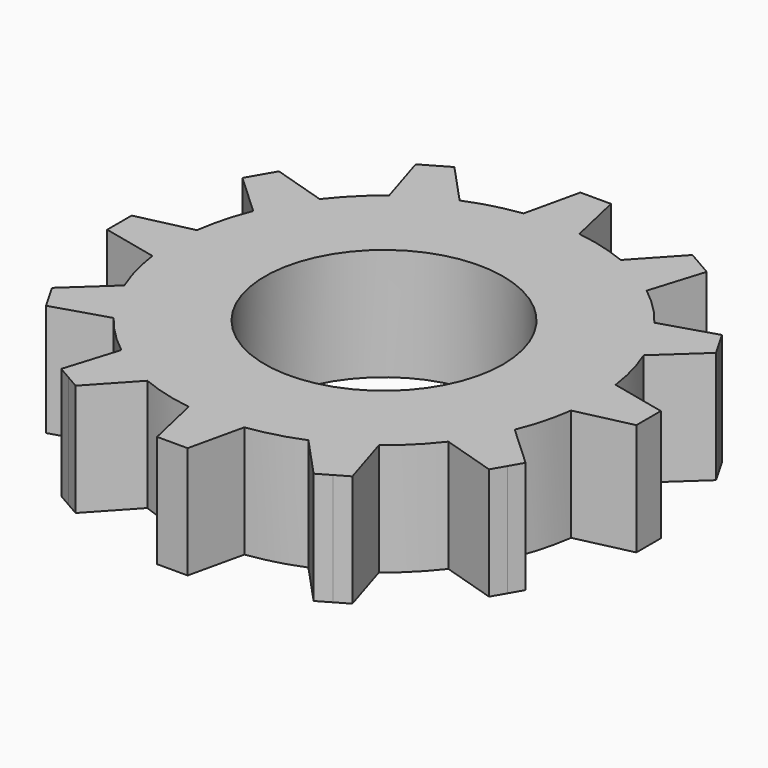
from build123d import *

# Parameters (mm, degrees)
F0_R     = 14.037326
F1_DEPTH = 13.208


with BuildPart() as f1:
    # F0 (on Top) → F1 (new body)
    with BuildSketch(Plane.XY):
        with BuildLine():
            ThreePointArc((24.666504, -3.280848), (24.82937, -1.644016), (24.883737, 0))
            ThreePointArc((24.883737, 0), (24.82937, 1.644016), (24.666504, 3.280848))
            ThreePointArc((24.666504, 3.280848), (24.035844, 6.440385), (23.002243, 9.491954))
            ThreePointArc((23.002243, 9.491954), (21.549949, 12.441869), (19.721395, 15.17455))
            ThreePointArc((19.721395, 15.17455), (17.595459, 17.595459), (15.17455, 19.721395))
            ThreePointArc((15.17455, 19.721395), (12.441869, 21.549949), (9.491954, 23.002243))
            ThreePointArc((9.491954, 23.002243), (6.440385, 24.035844), (3.280848, 24.666504))
            ThreePointArc((3.280848, 24.666504), (0, 24.883737), (-3.280848, 24.666504))
            ThreePointArc((-3.280848, 24.666504), (-6.440385, 24.035844), (-9.491954, 23.002243))
            ThreePointArc((-9.491954, 23.002243), (-12.441869, 21.549949), (-15.17455, 19.721395))
            ThreePointArc((-15.17455, 19.721395), (-17.595459, 17.595459), (-19.721395, 15.17455))
            ThreePointArc((-19.721395, 15.17455), (-21.549949, 12.441869), (-23.002243, 9.491954))
            ThreePointArc((-23.002243, 9.491954), (-24.035844, 6.440385), (-24.666504, 3.280848))
            ThreePointArc((-24.666504, 3.280848), (-24.883737, 0), (-24.666504, -3.280848))
            ThreePointArc((-24.666504, -3.280848), (-24.035844, -6.440385), (-23.002243, -9.491954))
            ThreePointArc((-23.002243, -9.491954), (-21.549949, -12.441869), (-19.721395, -15.17455))
            ThreePointArc((-19.721395, -15.17455), (-17.595459, -17.595459), (-15.17455, -19.721395))
            ThreePointArc((-15.17455, -19.721395), (-12.441869, -21.549949), (-9.491954, -23.002243))
            ThreePointArc((-9.491954, -23.002243), (-6.440385, -24.035844), (-3.280848, -24.666504))
            ThreePointArc((-3.280848, -24.666504), (0, -24.883737), (3.280848, -24.666504))
            ThreePointArc((3.280848, -24.666504), (6.440385, -24.035844), (9.491954, -23.002243))
            ThreePointArc((9.491954, -23.002243), (12.441869, -21.549949), (15.17455, -19.721395))
            ThreePointArc((15.17455, -19.721395), (17.595459, -17.595459), (19.721395, -15.17455))
            ThreePointArc((19.721395, -15.17455), (21.549949, -12.441869), (23.002243, -9.491954))
            ThreePointArc((23.002243, -9.491954), (24.035844, -6.440385), (24.666504, -3.280848))
        make_face()
        Circle(F0_R, mode=Mode.SUBTRACT)
        with BuildLine():
            ThreePointArc((24.666504, 3.280848), (24.82937, 1.644016), (24.883737, 0))
            ThreePointArc((24.883737, 0), (24.82937, -1.644016), (24.666504, -3.280848))
            Line((24.666504, -3.280848), (31.178985, -1.803033))
            Line((31.178985, -1.803033), (31.178985, 0))
            Line((31.178985, 0), (31.178985, 1.803033))
            Line((31.178985, 1.803033), (24.666504, 3.280848))
        make_face()
        with BuildLine():
            ThreePointArc((19.721395, 15.17455), (21.549949, 12.441869), (23.002243, 9.491954))
            Line((23.002243, 9.491954), (27.903309, 14.02802))
            Line((27.903309, 14.02802), (27.001793, 15.589492))
            Line((27.001793, 15.589492), (26.100276, 17.150965))
            Line((26.100276, 17.150965), (19.721395, 15.17455))
        make_face()
        with BuildLine():
            Line((27.903309, -14.02802), (23.002243, -9.491954))
            ThreePointArc((23.002243, -9.491954), (21.549949, -12.441869), (19.721395, -15.17455))
            Line((19.721395, -15.17455), (26.100276, -17.150965))
            Line((26.100276, -17.150965), (27.001793, -15.589492))
            Line((27.001793, -15.589492), (27.903309, -14.02802))
        make_face()
        with BuildLine():
            ThreePointArc((9.491954, 23.002243), (12.441869, 21.549949), (15.17455, 19.721395))
            Line((15.17455, 19.721395), (17.150965, 26.100276))
            Line((17.150965, 26.100276), (15.589492, 27.001793))
            Line((15.589492, 27.001793), (14.02802, 27.903309))
            Line((14.02802, 27.903309), (9.491954, 23.002243))
        make_face()
        with BuildLine():
            Line((17.150965, -26.100276), (15.17455, -19.721395))
            ThreePointArc((15.17455, -19.721395), (12.441869, -21.549949), (9.491954, -23.002243))
            Line((9.491954, -23.002243), (14.02802, -27.903309))
            Line((14.02802, -27.903309), (15.589492, -27.001793))
            Line((15.589492, -27.001793), (17.150965, -26.100276))
        make_face()
        with BuildLine():
            ThreePointArc((-3.280848, 24.666504), (0, 24.883737), (3.280848, 24.666504))
            Line((3.280848, 24.666504), (1.803033, 31.178985))
            Line((1.803033, 31.178985), (0, 31.178985))
            Line((0, 31.178985), (-1.803033, 31.178985))
            Line((-1.803033, 31.178985), (-3.280848, 24.666504))
        make_face()
        with BuildLine():
            Line((1.803033, -31.178985), (3.280848, -24.666504))
            ThreePointArc((3.280848, -24.666504), (0, -24.883737), (-3.280848, -24.666504))
            Line((-3.280848, -24.666504), (-1.803033, -31.178985))
            Line((-1.803033, -31.178985), (0, -31.178985))
            Line((0, -31.178985), (1.803033, -31.178985))
        make_face()
        with BuildLine():
            ThreePointArc((-15.17455, 19.721395), (-12.441869, 21.549949), (-9.491954, 23.002243))
            Line((-9.491954, 23.002243), (-14.02802, 27.903309))
            Line((-14.02802, 27.903309), (-15.589492, 27.001793))
            Line((-15.589492, 27.001793), (-17.150965, 26.100276))
            Line((-17.150965, 26.100276), (-15.17455, 19.721395))
        make_face()
        with BuildLine():
            Line((-14.02802, -27.903309), (-9.491954, -23.002243))
            ThreePointArc((-9.491954, -23.002243), (-12.441869, -21.549949), (-15.17455, -19.721395))
            Line((-15.17455, -19.721395), (-17.150965, -26.100276))
            Line((-17.150965, -26.100276), (-15.589492, -27.001793))
            Line((-15.589492, -27.001793), (-14.02802, -27.903309))
        make_face()
        with BuildLine():
            ThreePointArc((-23.002243, 9.491954), (-21.549949, 12.441869), (-19.721395, 15.17455))
            Line((-19.721395, 15.17455), (-26.100276, 17.150965))
            Line((-26.100276, 17.150965), (-27.001793, 15.589492))
            Line((-27.001793, 15.589492), (-27.903309, 14.02802))
            Line((-27.903309, 14.02802), (-23.002243, 9.491954))
        make_face()
        with BuildLine():
            Line((-26.100276, -17.150965), (-19.721395, -15.17455))
            ThreePointArc((-19.721395, -15.17455), (-21.549949, -12.441869), (-23.002243, -9.491954))
            Line((-23.002243, -9.491954), (-27.903309, -14.02802))
            Line((-27.903309, -14.02802), (-27.001793, -15.589492))
            Line((-27.001793, -15.589492), (-26.100276, -17.150965))
        make_face()
        with BuildLine():
            ThreePointArc((-24.666504, -3.280848), (-24.883737, 0), (-24.666504, 3.280848))
            Line((-24.666504, 3.280848), (-31.178985, 1.803033))
            Line((-31.178985, 1.803033), (-31.178985, 0))
            Line((-31.178985, 0), (-31.178985, -1.803033))
            Line((-31.178985, -1.803033), (-24.666504, -3.280848))
        make_face()
    extrude(amount=F1_DEPTH)


solid = f1.part
